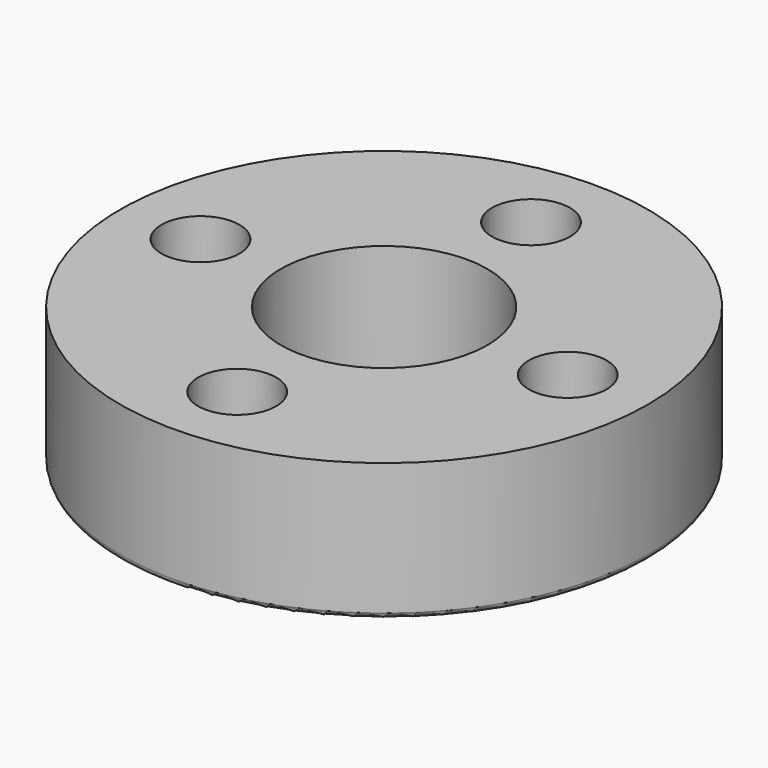
from build123d import *

# Parameters (mm, degrees)
SKETCH_R     = 11.5
SKETCH_R_2   = 1.7
SKETCH_R_3   = 4.5
PAD_DEPTH    = 6
SKETCH001_R  = 2.6
POCKET_DEPTH = 3
FILLET_R     = 0.25


with BuildPart() as part:
    # Sketch → Pad (new body)
    with BuildSketch(Plane.XY):
        Circle(SKETCH_R)
        with Locations((0, 8)):
            Circle(SKETCH_R_2, mode=Mode.SUBTRACT)
        with Locations((-8, 0)):
            Circle(SKETCH_R_2, mode=Mode.SUBTRACT)
        with Locations((0, -8)):
            Circle(SKETCH_R_2, mode=Mode.SUBTRACT)
        with Locations((8, 0)):
            Circle(SKETCH_R_2, mode=Mode.SUBTRACT)
        Circle(SKETCH_R_3, mode=Mode.SUBTRACT)
    extrude(amount=PAD_DEPTH)

    # Sketch001 → Pocket (cut)
    with BuildSketch(Plane.XY):
        with Locations((0, 8)):
            Circle(SKETCH001_R)
        with Locations((0, -8)):
            Circle(SKETCH001_R)
        with Locations((8, 0)):
            Circle(SKETCH001_R)
        with Locations((-8, 0)):
            Circle(SKETCH001_R)
    extrude(amount=POCKET_DEPTH, mode=Mode.SUBTRACT)

    # Fillet
    fillet_edges = [part.edges().sort_by_distance(p)[0] for p in [
        (-11.5, 0, 0),
        (-2.6, -8, 0),
        (5.4, 0, 0),
        (-4.5, 0, 0),
        (-10.6, 0, 0),
        (-2.6, 8, 0),
    ]]
    fillet(fillet_edges, radius=FILLET_R)


solid = part.part
